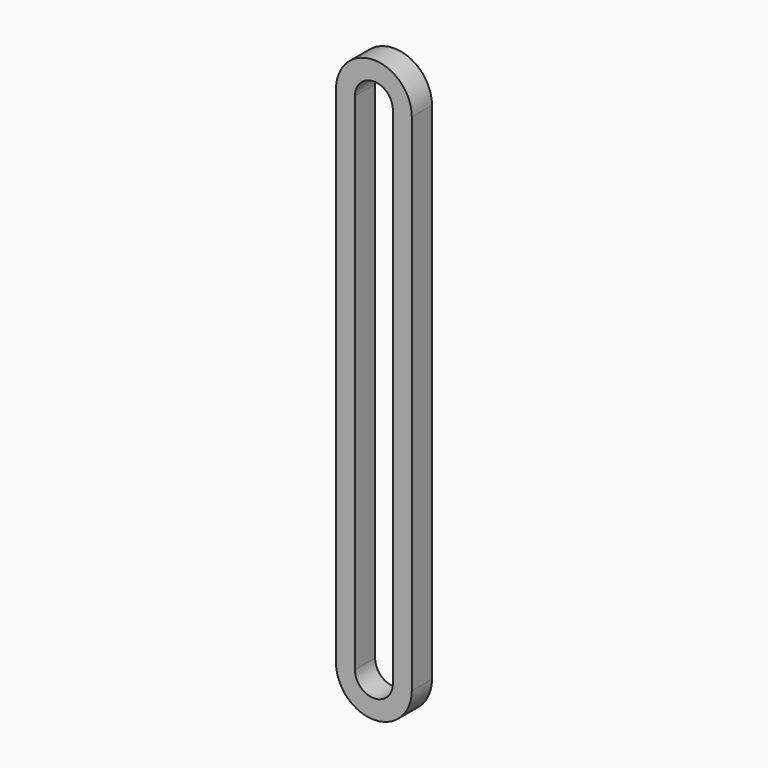
from build123d import *

# Parameters (mm, degrees)
F1_DEPTH = 5


with BuildPart() as f1:
    # F0 (on Front) → F1 (new body)
    with BuildSketch(Plane.XZ):
        with BuildLine():
            ThreePointArc((-50.1512476802, 47.6373701122), (-52.8964382086, 50.3825606406), (-53.9012476802, 54.1325606406))
            Line((-53.9012476802, 54.1325606406), (-53.9012476802, -45.8674393594))
            ThreePointArc((-53.9012476802, -45.8674393594), (-52.8964382086, -42.1174393594), (-50.1512476802, -39.372248831))
            Line((-50.1512476802, -39.372248831), (-50.1512476802, 47.6373701122))
        make_face()
        with BuildLine():
            Line((-50.1512476802, 54.1325606406), (-53.9012476802, 54.1325606406))
            ThreePointArc((-53.9012476802, 54.1325606406), (-52.8964382086, 50.3825606406), (-50.1512476802, 47.6373701122))
            Line((-50.1512476802, 47.6373701122), (-50.1512476802, 54.1325606406))
        make_face()
        with BuildLine():
            ThreePointArc((-38.9012476802, 54.1325606406), (-46.4012476802, 61.6325606406), (-53.9012476802, 54.1325606406))
            Line((-53.9012476802, 54.1325606406), (-50.1512476802, 54.1325606406))
            ThreePointArc((-50.1512476802, 54.1325606406), (-46.4012476802, 57.8825606406), (-42.6512476802, 54.1325606406))
            Line((-42.6512476802, 54.1325606406), (-38.9012476802, 54.1325606406))
        make_face()
        with BuildLine():
            ThreePointArc((-42.6512476802, 47.6373701122), (-39.9060571518, 50.3825606406), (-38.9012476802, 54.1325606406))
            Line((-38.9012476802, 54.1325606406), (-42.6512476802, 54.1325606406))
            Line((-42.6512476802, 54.1325606406), (-42.6512476802, 47.6373701122))
        make_face()
        with BuildLine():
            Line((-38.9012476802, -45.8674393594), (-38.9012476802, 54.1325606406))
            ThreePointArc((-38.9012476802, 54.1325606406), (-39.9060571518, 50.3825606406), (-42.6512476802, 47.6373701122))
            Line((-42.6512476802, 47.6373701122), (-42.6512476802, -39.372248831))
            ThreePointArc((-42.6512476802, -39.372248831), (-39.9060571518, -42.1174393594), (-38.9012476802, -45.8674393594))
        make_face()
        with BuildLine():
            Line((-42.6512476802, -45.8674393594), (-38.9012476802, -45.8674393594))
            ThreePointArc((-38.9012476802, -45.8674393594), (-39.9060571518, -42.1174393594), (-42.6512476802, -39.372248831))
            Line((-42.6512476802, -39.372248831), (-42.6512476802, -45.8674393594))
        make_face()
        with BuildLine():
            Line((-50.1512476802, -45.8674393594), (-53.9012476802, -45.8674393594))
            ThreePointArc((-53.9012476802, -45.8674393594), (-46.4012476802, -53.3674393594), (-38.9012476802, -45.8674393594))
            Line((-38.9012476802, -45.8674393594), (-42.6512476802, -45.8674393594))
            ThreePointArc((-42.6512476802, -45.8674393594), (-46.4012476802, -49.6174393594), (-50.1512476802, -45.8674393594))
        make_face()
        with BuildLine():
            ThreePointArc((-50.1512476802, -39.372248831), (-52.8964382086, -42.1174393594), (-53.9012476802, -45.8674393594))
            Line((-53.9012476802, -45.8674393594), (-50.1512476802, -45.8674393594))
            Line((-50.1512476802, -45.8674393594), (-50.1512476802, -39.372248831))
        make_face()
    extrude(amount=F1_DEPTH)


solid = f1.part
